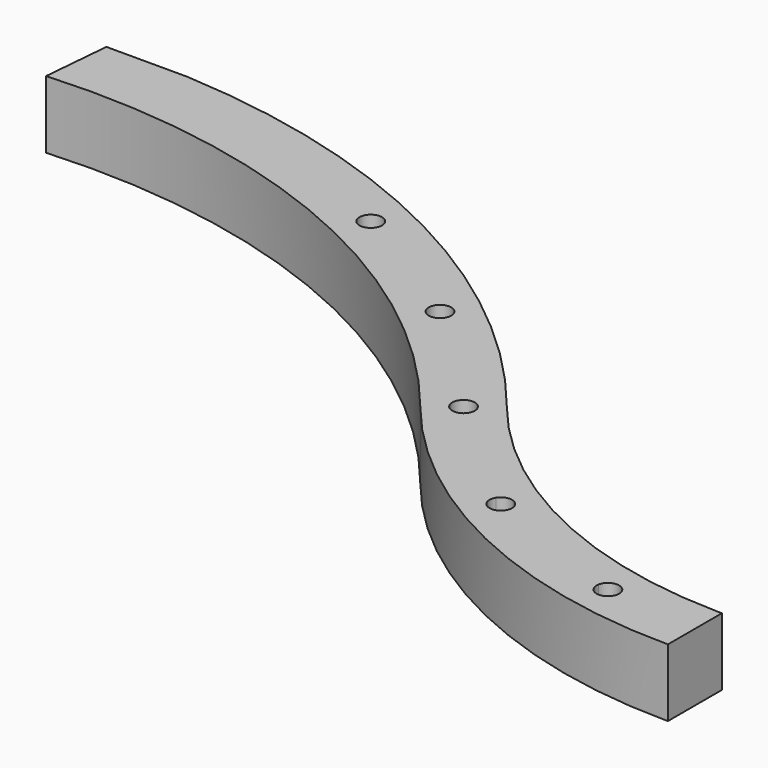
from build123d import *

# Parameters (mm, degrees)
F1_DEPTH = 304.8
F2_DEPTH = 304.8
F3_DEPTH = 304.8


with BuildPart() as f1:
    # F0 (on Top) → F1 (new body)
    with BuildSketch(Plane.XY):
        with BuildLine():
            ThreePointArc((501.8373213462, -1162.1641319538), (-588.8138343541, -269.9358016899), (-1948.5691277783, 99.7355101007))
            Line((-1948.5691277783, 99.7355101007), (-2314.2295336755, 99.7355101007))
            Line((-2314.2295336755, 99.7355101007), (-2341.1214825581, -206.7828963515))
            ThreePointArc((-2341.1214825581, -206.7828963515), (-897.9972664569, -460.0197324886), (263.8832180742, -1352.6395496224))
            ThreePointArc((263.8832180742, -1352.6395496224), (346.7538874407, -1450.5053929426), (434.8963853673, -1543.651360055))
            Line((434.8963853674, -1543.651360055), (542.6594588202, -1435.8882866022))
            Line((542.6594588202, -1435.8882866022), (650.422532273, -1328.1252131493))
            ThreePointArc((650.422532273, -1328.1252131493), (573.8397062056, -1247.1951105763), (501.8373213462, -1162.1641319538))
        make_face()
        with BuildLine():
            ThreePointArc((433.6602697102, -1257.4018407881), (428.777505301, -1279.1330965203), (415.0678494071, -1296.6868482346))
            ThreePointArc((415.0678494071, -1296.6868482346), (343.5137867979, -1289.5342898455), (350.8030686318, -1217.9940260933))
            ThreePointArc((350.8030686318, -1217.9940260933), (404.6792314777, -1211.5262164611), (433.6602697102, -1257.4018407881))
        make_face(mode=Mode.SUBTRACT)
        with BuildLine():
            ThreePointArc((-84.344806107, -742.5742430084), (-87.225399321, -759.4375301517), (-95.5404932439, -774.3883657001))
            ThreePointArc((-95.5404932439, -774.3883657001), (-166.6460909386, -782.4278382534), (-175.2452126635, -711.3877492331))
            ThreePointArc((-175.2452126635, -711.3877492331), (-118.6593678822, -694.5235372224), (-84.344806107, -742.5742430084))
        make_face(mode=Mode.SUBTRACT)
        with BuildLine():
            ThreePointArc((-704.8844563159, -357.4674311671), (-706.1641040933, -368.7976878168), (-709.9385789832, -379.5571280202))
            ThreePointArc((-709.9385789832, -379.5571280202), (-777.4132569884, -403.385828584), (-801.7725267064, -336.1008739413))
            ThreePointArc((-801.7725267064, -336.1008739413), (-744.744483186, -307.8593976653), (-704.8844563159, -357.4674311671))
        make_face(mode=Mode.SUBTRACT)
    extrude(amount=F1_DEPTH)

    # F0 (on Top) → F2 (join)
    with BuildSketch(Plane.XY):
        with BuildLine():
            ThreePointArc((906.1913762496, -1728.5099648127), (716.5424919701, -1591.9922998257), (542.6594588202, -1435.8882866021))
            Line((542.6594588202, -1435.8882866022), (434.8963853674, -1543.651360055))
            ThreePointArc((434.8963853673, -1543.651360055), (1188.8886903633, -2047.4529114088), (2078.283255523, -2224.3644898993))
            Line((2078.283255523, -2224.3644898993), (2078.283255523, -2071.9644898993))
            ThreePointArc((2078.283255523, -2071.9644898993), (2065.5830383492, -2071.9273538089), (2052.883255523, -2071.8159468075))
            ThreePointArc((2052.883255523, -2071.8159468075), (1876.6707861859, -2062.5857662613), (1701.7893257852, -2039.0803330402))
            ThreePointArc((1701.7893257852, -2039.0803330402), (1641.8902756154, -2079.500001974), (1602.1739450511, -2019.1323042006))
            ThreePointArc((1602.1739450511, -2019.1323042006), (1288.5725550934, -1923.2914051002), (992.9765867594, -1781.3254471087))
            ThreePointArc((992.9765867594, -1781.3254471087), (922.8655503609, -1798.8208300162), (906.1913762496, -1728.5099648127))
        make_face()
    extrude(amount=F2_DEPTH)

    # F0 (on Top) → F3 (join)
    with BuildSketch(Plane.XY):
        with BuildLine():
            ThreePointArc((2052.883255523, -1919.4047351522), (1293.8123824371, -1760.9573552803), (650.422532273, -1328.1252131493))
            Line((650.422532273, -1328.1252131493), (542.6594588202, -1435.8882866022))
            ThreePointArc((542.6594588202, -1435.8882866021), (716.5424919701, -1591.9922998257), (906.1913762496, -1728.5099648127))
            ThreePointArc((906.1913762496, -1728.5099648127), (963.2748646873, -1706.5924137874), (1000.0750979075, -1755.4252565278))
            ThreePointArc((1000.0750979075, -1755.4252565278), (998.2683404705, -1768.8529213717), (992.9765867594, -1781.3254471087))
            ThreePointArc((992.9765867594, -1781.3254471087), (1288.5725550934, -1923.2914051002), (1602.1739450511, -2019.1323042006))
            ThreePointArc((1602.1739450511, -2019.1323042006), (1657.172317012, -1979.1669084337), (1702.6649722991, -2029.6889045552))
            ThreePointArc((1702.6649722991, -2029.6889045552), (1702.4455869508, -2034.4049857092), (1701.7893257852, -2039.0803330402))
            ThreePointArc((1701.7893257852, -2039.0803330402), (1876.6707861859, -2062.5857662613), (2052.883255523, -2071.8159468075))
            Line((2052.883255523, -2071.8159468075), (2052.883255523, -1919.4047351522))
        make_face()
        with BuildLine():
            ThreePointArc((2078.283255523, -1919.5644898993), (2065.5830043289, -1919.5245508176), (2052.883255523, -1919.4047351522))
            Line((2052.883255523, -1919.4047351522), (2052.883255523, -2071.8159468075))
            ThreePointArc((2052.883255523, -2071.8159468075), (2065.5830383492, -2071.9273538089), (2078.283255523, -2071.9644898993))
            Line((2078.283255523, -2071.9644898993), (2078.283255523, -1919.5644898993))
        make_face()
    extrude(amount=F3_DEPTH)


solid = f1.part
